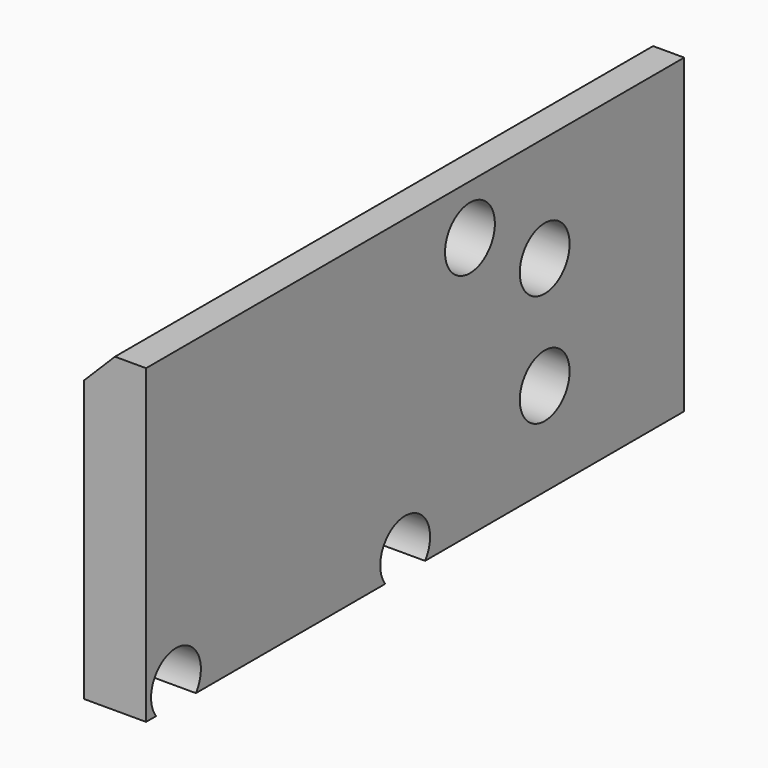
from build123d import *

# Parameters (mm, degrees)
CYLINDER408_R     = 5
CYLINDER408_DEPTH = 100
CYLINDER409_R     = 5
CYLINDER409_DEPTH = 100
CYLINDER410_R     = 5
CYLINDER410_DEPTH = 100
CYLINDER411_R     = 5
CYLINDER411_DEPTH = 100
CYLINDER412_R     = 5
CYLINDER412_DEPTH = 100
CYLINDER413_R     = 5
CYLINDER413_DEPTH = 100
CYLINDER414_R     = 5
CYLINDER414_DEPTH = 100
CYLINDER407_R     = 5
CYLINDER407_DEPTH = 100
BOX134_W          = 10
BOX134_H          = 108
BOX134_DEPTH      = 50
CHAMFER_SIZE      = 5


with BuildPart() as obj1:
    # Cylinder408 → Cylinder408 (new body)
    with BuildSketch(Plane(origin=(24, -51, 25), x_dir=(0, 0, -1), z_dir=(1, 0, 0))):
        Circle(CYLINDER408_R)
    extrude(amount=CYLINDER408_DEPTH)


with BuildPart() as obj2:
    # Cylinder409 → Cylinder409 (new body)
    with BuildSketch(Plane(origin=(24, 36, 34), x_dir=(0, 0, -1), z_dir=(1, 0, 0))):
        Circle(CYLINDER409_R)
    extrude(amount=CYLINDER409_DEPTH)


with BuildPart() as obj3:
    # Cylinder410 → Cylinder410 (new body)
    with BuildSketch(Plane(origin=(24, -36, 34), x_dir=(0, 0, -1), z_dir=(1, 0, 0))):
        Circle(CYLINDER410_R)
    extrude(amount=CYLINDER410_DEPTH)


with BuildPart() as obj4:
    # Cylinder411 → Cylinder411 (new body)
    with BuildSketch(Plane(origin=(24, -23, -5), x_dir=(0, 0, -1), z_dir=(1, 0, 0))):
        Circle(CYLINDER411_R)
    extrude(amount=CYLINDER411_DEPTH)


with BuildPart() as obj5:
    # Cylinder412 → Cylinder412 (new body)
    with BuildSketch(Plane(origin=(24, 51, 7), x_dir=(0, 0, -1), z_dir=(1, 0, 0))):
        Circle(CYLINDER412_R)
    extrude(amount=CYLINDER412_DEPTH)


with BuildPart() as obj6:
    # Cylinder413 → Cylinder413 (new body)
    with BuildSketch(Plane(origin=(24, 23, -5), x_dir=(0, 0, -1), z_dir=(1, 0, 0))):
        Circle(CYLINDER413_R)
    extrude(amount=CYLINDER413_DEPTH)


with BuildPart() as obj7:
    # Cylinder414 → Cylinder414 (new body)
    with BuildSketch(Plane(origin=(24, -51, 7), x_dir=(0, 0, -1), z_dir=(1, 0, 0))):
        Circle(CYLINDER414_R)
    extrude(amount=CYLINDER414_DEPTH)


with BuildPart() as compound586:
    # Cylinder407 → Cylinder407 (new body)
    with BuildSketch(Plane(origin=(24, 51, 25), x_dir=(0, 0, -1), z_dir=(1, 0, 0))):
        Circle(CYLINDER407_R)
    extrude(amount=CYLINDER407_DEPTH)

    # Compound586: union obj1, obj2, obj3, obj4, obj5, obj6, obj7
    add(obj1.part)
    add(obj2.part)
    add(obj3.part)
    add(obj4.part)
    add(obj5.part)
    add(obj6.part)
    add(obj7.part)


with BuildPart() as compound586_1:
    # Compound586 placement: moved
    add(compound586.part.moved(Location((32, 0, 0))))


with BuildPart() as cut362:
    # Box134 → Box134 (new body)
    with BuildSketch(Plane(origin=(87, -29, -8), x_dir=(1, 0, 0), z_dir=(0, 0, 1))):
        with Locations((5, 54)):
            Rectangle(BOX134_W, BOX134_H)
    extrude(amount=BOX134_DEPTH)

    # Chamfer
    chamfer_edges = [cut362.edges().sort_by_distance(p)[0] for p in [
        (87, 25, 42),
    ]]
    chamfer(chamfer_edges, length=CHAMFER_SIZE)

    # Cut362: cut Compound586
    add(compound586_1.part, mode=Mode.SUBTRACT)


solid = cut362.part
